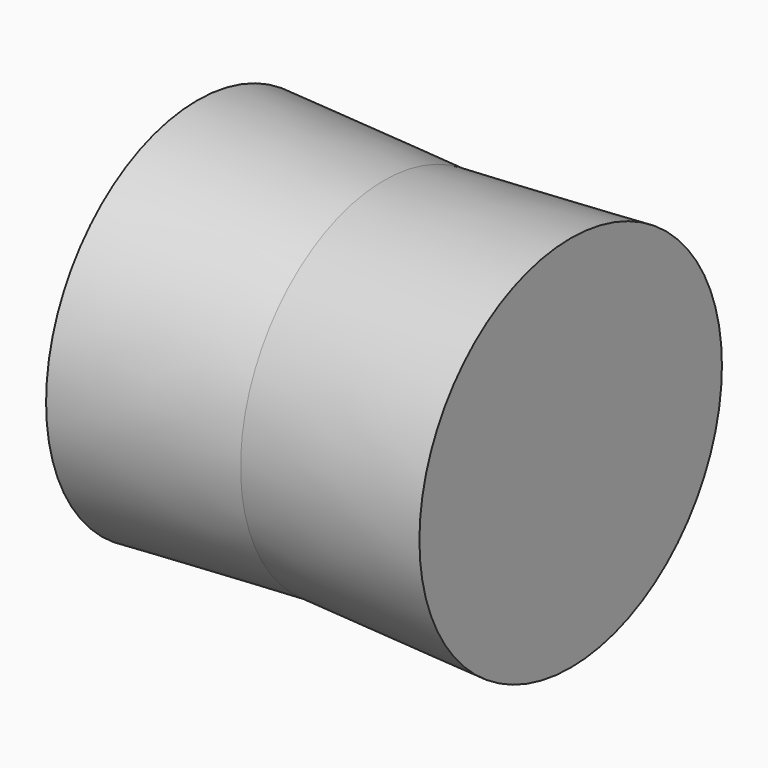
from build123d import *

# Parameters (mm, degrees)
F0_R     = 60.9849744178
F1_DEPTH = 63.5
F1_TAPER = -3


with BuildPart() as f1:
    # F0 (on Right) → F1 (new body, symmetric)
    with BuildSketch(Plane.YZ):
        Circle(F0_R)
    extrude(amount=F1_DEPTH, both=True, taper=F1_TAPER)


solid = f1.part
